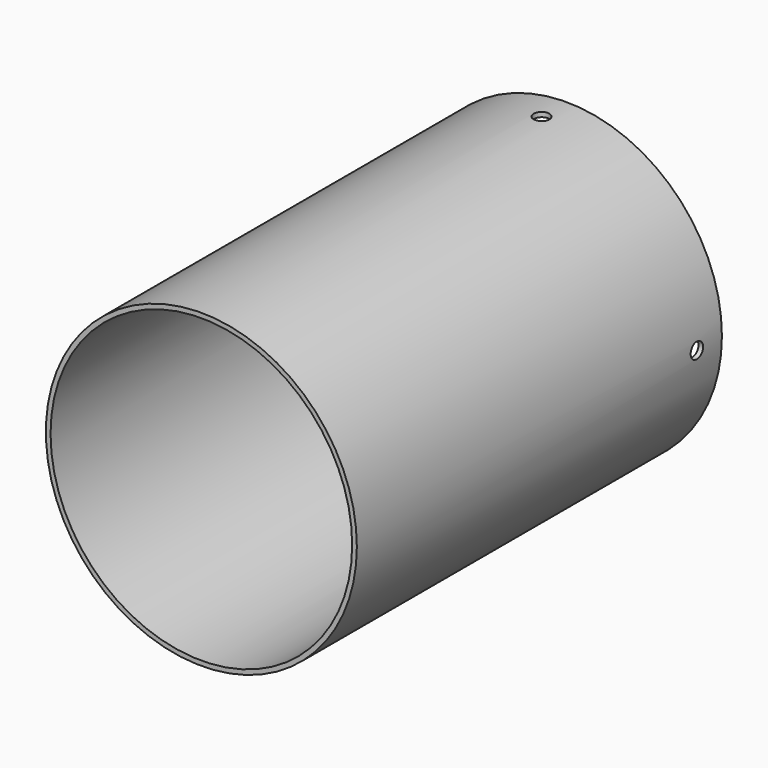
from build123d import *

# Parameters (mm, degrees)
F0_R          = 49.75
F0_R_2        = 48.25
F1_DEPTH      = 73
F3_R          = 2.5
F4_DEPTH      = 49.751
F4_DEPTH_BACK = 49.751
F2_R          = 2.5
F5_DEPTH      = 49.7510001
F5_DEPTH_BACK = 49.7510001


with BuildPart() as f1:
    # F0 (on Front) → F1 (new body, symmetric)
    with BuildSketch(Plane.XZ):
        Circle(F0_R)
        Circle(F0_R_2, mode=Mode.SUBTRACT)
    extrude(amount=F1_DEPTH, both=True)

    # F3 (on Right) → F4 (cut, two sides)
    with BuildSketch(Plane.YZ) as f4_sk:
        with Locations((63, 0)):
            Circle(F3_R)
    extrude(amount=F4_DEPTH, mode=Mode.SUBTRACT)
    extrude(f4_sk.sketch, amount=-F4_DEPTH_BACK, mode=Mode.SUBTRACT)

    # F2 (on Top) → F5 (cut, two sides)
    with BuildSketch(Plane.XY) as f5_sk:
        with Locations((0, 63)):
            Circle(F2_R)
    extrude(amount=-F5_DEPTH, mode=Mode.SUBTRACT)
    extrude(f5_sk.sketch, amount=F5_DEPTH_BACK, mode=Mode.SUBTRACT)


solid = f1.part
